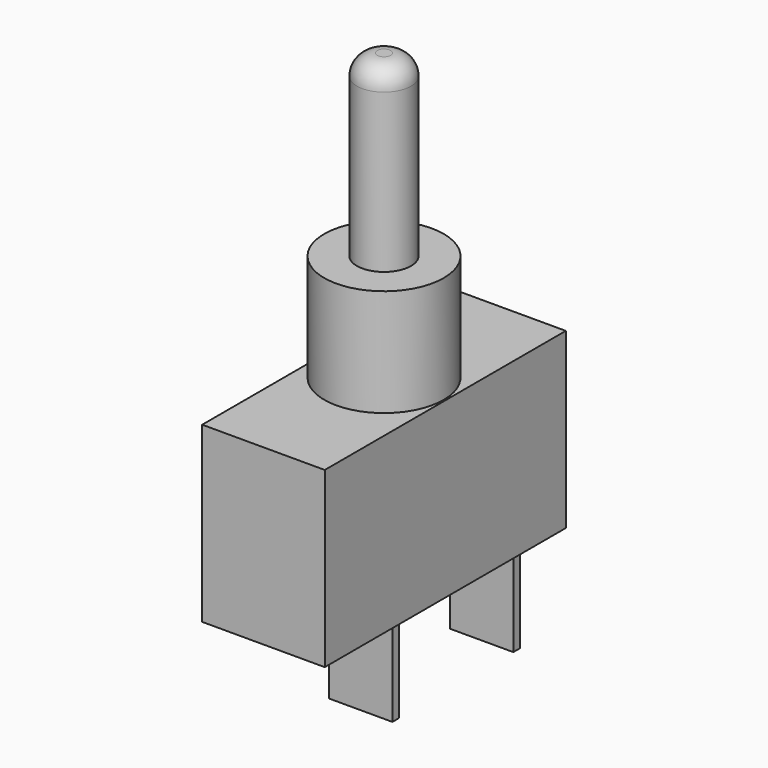
from build123d import *

# Parameters (mm, degrees)
F0_W     = 12
F0_H     = 29.5
F0_R     = 5.85
F1_DEPTH = 17
F2_DEPTH = 10.5
F3_R     = 2.65
F4_DEPTH = 17.5
F5_R     = 2
F7_DEPTH = 10.5


with BuildPart() as f1:
    # F0 (on Top) → F1 (new body)
    with BuildSketch(Plane.XY):
        with Locations((2.146811, -5.062469)):
            Rectangle(F0_W, F0_H)
        with Locations((2.146811, -5.062469)):
            Circle(F0_R, mode=Mode.SUBTRACT)
        with Locations((2.146811, -5.062469)):
            Circle(F0_R)
    extrude(amount=-F1_DEPTH)

    # F0 (on Top) → F2 (join)
    with BuildSketch(Plane.XY):
        with Locations((2.146811, -5.062469)):
            Circle(F0_R)
    extrude(amount=F2_DEPTH)

    # F3 (on face) → F4 (join)
    with BuildSketch(Plane.XY.offset(10.5)):
        with Locations((2.146811, -5.062469)):
            Circle(F3_R)
    extrude(amount=F4_DEPTH)

    # F5
    f5_edges = [f1.edges().sort_by_distance(p)[0] for p in [
        (-0.503189, -5.062469, 28),
    ]]
    fillet(f5_edges, radius=F5_R)

    # F6 (on face) → F7 (join)
    with BuildSketch(Plane(origin=(0, 0, -17), x_dir=(1, 0, 0), z_dir=(0, 0, -1))):
        Polygon((-0.953189, 7.112469), (2.146811, 7.112469), (5.246811, 7.112469), (5.246811, 7.912469), (-0.953189, 7.912469), align=None)
        Polygon((-0.953189, -7.687531), (2.146811, -7.687531), (5.246811, -7.687531), (5.246811, -6.887531), (-0.953189, -6.887531), align=None)
    extrude(amount=F7_DEPTH)


solid = f1.part
